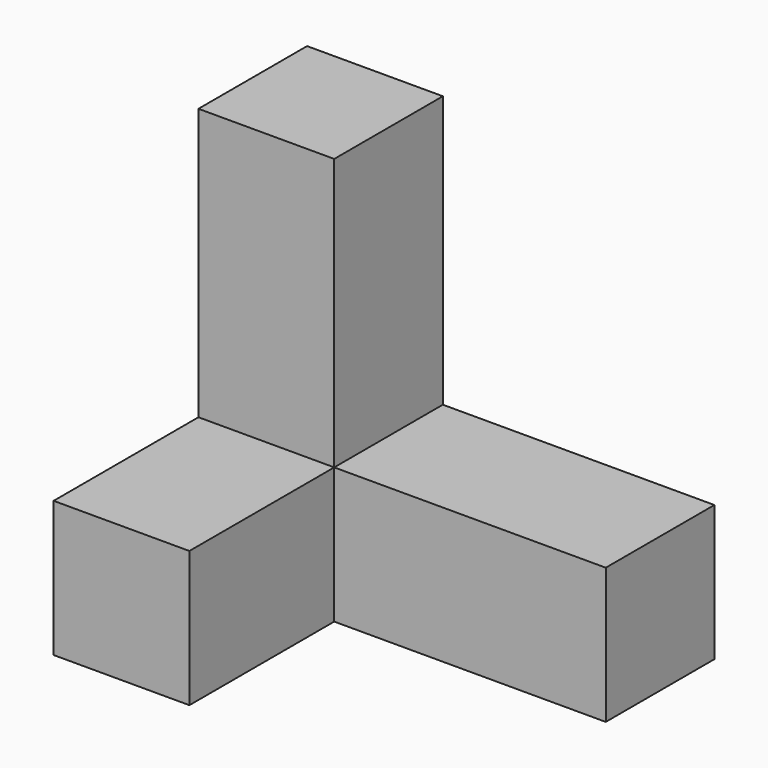
from build123d import *

# Parameters (mm, degrees)
F0_W     = 19.05
F0_H     = 38.1
F1_DEPTH = 19.05
F2_W     = 19.05
F2_H     = 19.05
F3_DEPTH = 25.4


with BuildPart() as f1:
    # F0 (on Front) → F1 (new body)
    with BuildSketch(Plane.XZ):
        Polygon((0, 19.05), (0, 0), (57.15, 0), (57.15, 19.05), (19.05, 19.05), align=None)
        with Locations((9.525, 38.1)):
            Rectangle(F0_W, F0_H)
    extrude(amount=F1_DEPTH)

    # F2 (on face) → F3 (join)
    with BuildSketch(Plane.XZ.offset(19.05)):
        with Locations((9.525, 9.525)):
            Rectangle(F2_W, F2_H)
    extrude(amount=F3_DEPTH)


solid = f1.part
